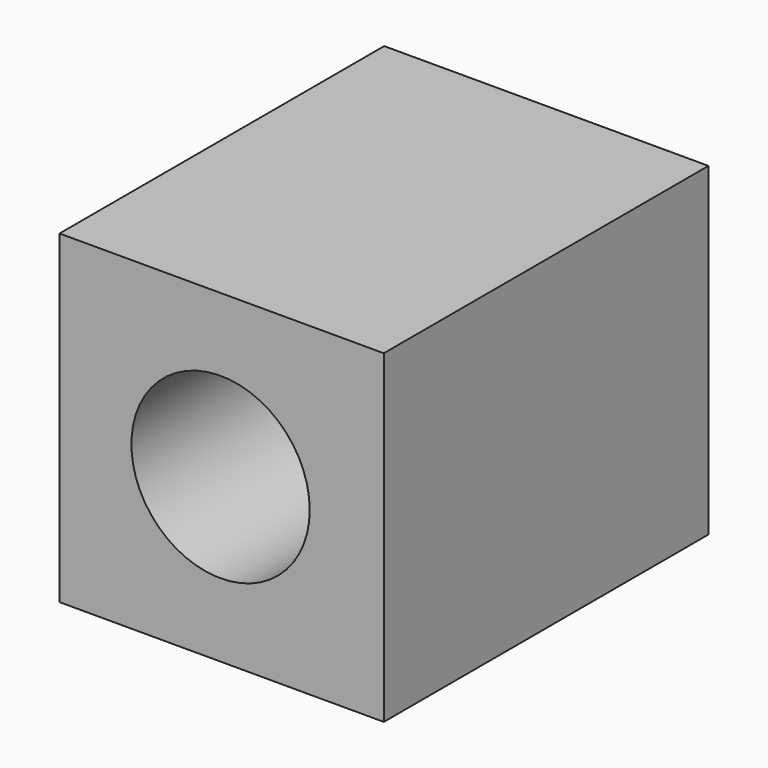
from build123d import *

# Parameters (mm, degrees)
F0_W     = 151.1929035187
F0_H     = 151.341073215
F0_R     = 41.5752961905
F1_DEPTH = 189.23
F3_R     = 41.7382052219
F4_DEPTH = 3.302


with BuildPart() as f1:
    # F0 (on Front) → F1 (new body)
    with BuildSketch(Plane.XZ):
        with Locations((0.5213543773, -0.1101754606)):
            Rectangle(F0_W, F0_H)
        Circle(F0_R, mode=Mode.SUBTRACT)
    extrude(amount=F1_DEPTH)

    # F3 (on face) → F4 (join)
    with BuildSketch(Plane(origin=(0, 0, 0), x_dir=(-1, 0, 0), z_dir=(0, 1, 0))):
        Circle(F3_R)
    extrude(amount=F4_DEPTH)


solid = f1.part
